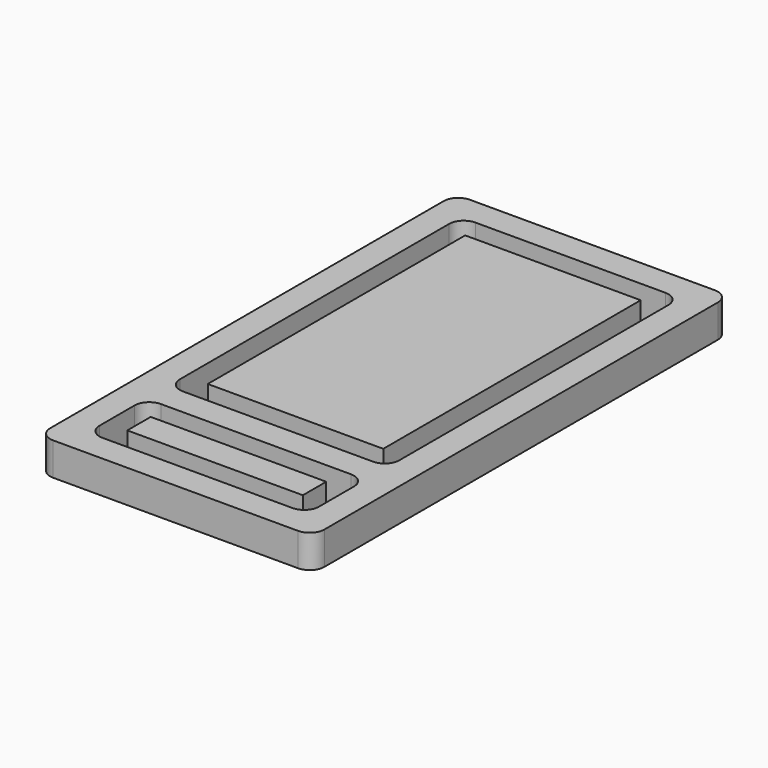
from build123d import *

# Parameters (mm, degrees)
F0_W     = 95.25
F0_H     = 180.975
F1_DEPTH = 11.43
F2_W     = 76.2
F2_H     = 127
F2_W_2   = 60.96
F2_H_2   = 111.76
F2_H_3   = 25.4
F2_H_4   = 10.16
F3_DEPTH = 11.303
F4_R     = 5.08


with BuildPart() as f1:
    # F0 (on Top) → F1 (new body)
    with BuildSketch(Plane.XY):
        with Locations((47.625, 90.4875)):
            Rectangle(F0_W, F0_H)
    extrude(amount=F1_DEPTH)

    # F2 (on face) → F3 (cut)
    with BuildSketch(Plane.XY.offset(11.43)):
        with Locations((47.625, 107.95)):
            Rectangle(F2_W, F2_H)
        with Locations((47.625, 107.95)):
            Rectangle(F2_W_2, F2_H_2, mode=Mode.SUBTRACT)
        with Locations((47.625, 22.225)):
            Rectangle(F2_W, F2_H_3)
        with Locations((47.625, 22.225)):
            Rectangle(F2_W_2, F2_H_4, mode=Mode.SUBTRACT)
    extrude(amount=-F3_DEPTH, mode=Mode.SUBTRACT)

    # F4
    f4_edges = [f1.edges().sort_by_distance(p)[0] for p in [
        (0, 0, 5.715),
        (9.525, 34.925, 5.7785),
        (95.25, 0, 5.715),
        (85.725, 34.925, 5.7785),
        (9.525, 9.525, 5.7785),
        (85.725, 9.525, 5.7785),
        (85.725, 44.45, 5.7785),
        (9.525, 44.45, 5.7785),
        (0, 180.975, 5.715),
        (95.25, 180.975, 5.715),
        (85.725, 171.45, 5.7785),
        (9.525, 171.45, 5.7785),
    ]]
    fillet(f4_edges, radius=F4_R)


solid = f1.part
